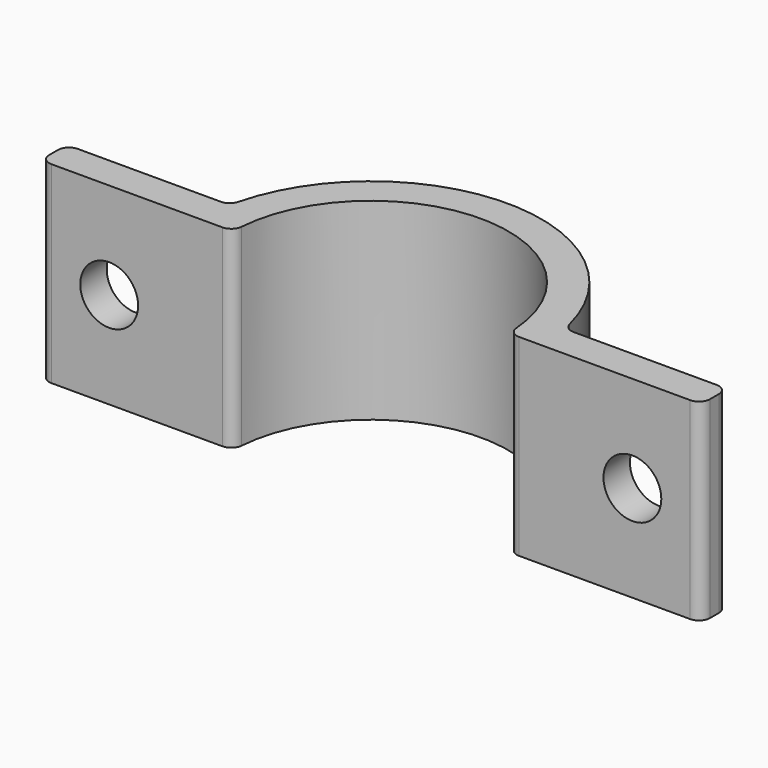
from build123d import *

# Parameters (mm, degrees)
F1_DEPTH = 14
F2_R     = 2.1
F3_DEPTH = 12.401


with BuildPart() as f1:
    # F0 (on Top) → F1 (new body)
    with BuildSketch(Plane.XY):
        with BuildLine():
            ThreePointArc((-9.972527, 0.740741), (0, 10), (9.972527, 0.740741))
            ThreePointArc((9.972527, 0.740741), (10.225999, 0.213738), (10.77033, 0))
            Line((10.77033, 0), (23.2, 0))
            ThreePointArc((23.2, 0), (23.765685, 0.234315), (24, 0.8))
            Line((24, 0.8), (24, 1.6))
            ThreePointArc((24, 1.6), (23.765685, 2.165685), (23.2, 2.4))
            Line((23.2, 2.4), (12.806248, 2.4))
            ThreePointArc((12.806248, 2.4), (12.313883, 2.569464), (12.030112, 3.006061))
            ThreePointArc((12.030112, 3.006061), (0, 12.4), (-12.030112, 3.006061))
            ThreePointArc((-12.030112, 3.006061), (-12.313883, 2.569464), (-12.806248, 2.4))
            Line((-12.806248, 2.4), (-23.2, 2.4))
            ThreePointArc((-23.2, 2.4), (-23.765685, 2.165685), (-24, 1.6))
            Line((-24, 1.6), (-24, 0.8))
            ThreePointArc((-24, 0.8), (-23.765685, 0.234315), (-23.2, 0))
            Line((-23.2, 0), (-10.77033, 0))
            ThreePointArc((-10.77033, 0), (-10.225999, 0.213738), (-9.972527, 0.740741))
        make_face()
    extrude(amount=F1_DEPTH)

    # F2 (on face) → F3 (cut, through all)
    with BuildSketch(Plane.XZ):
        with Locations((19, 7)):
            Circle(F2_R)
        with Locations((-19, 7)):
            Circle(F2_R)
    extrude(amount=-F3_DEPTH, mode=Mode.SUBTRACT)


solid = f1.part
